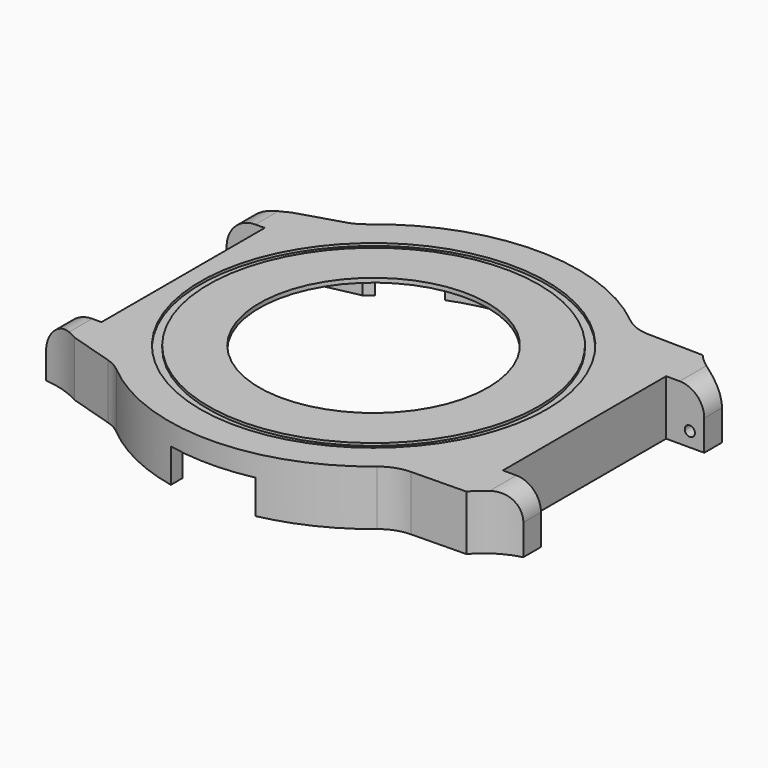
from build123d import *

# Parameters (mm, degrees)
PAD_DEPTH       = 6.5
POCKET_DEPTH    = 6
SKETCH002_R     = 13.5
POCKET001_DEPTH = 1
SKETCH003_W     = 5.4
SKETCH003_H     = 6.5
PAD001_DEPTH    = 4.5
POCKET002_DEPTH = 10
SKETCH008_R     = 0.6
POCKET003_DEPTH = 2
SKETCH009_R     = 0.6
POCKET004_DEPTH = 2
FILLET_R        = 2.9
FILLET001_R     = 2.9
FILLET002_R     = 5
FILLET003_R     = 5
FILLET004_R     = 5
FILLET005_R     = 5
SKETCH010_W     = 3.95
SKETCH010_H     = 6.5
PAD002_DEPTH    = 4.5
POCKET005_DEPTH = 10
SKETCH012_R     = 0.6
POCKET006_DEPTH = 2
SKETCH013_R     = 0.6
POCKET007_DEPTH = 2
FILLET006_R     = 3.4
FILLET007_R     = 3.4
SKETCH014_R     = 20.45
SKETCH014_R_2   = 19.5
POCKET008_DEPTH = 0.3
SKETCH015_R     = 2.2
SKETCH015_R_2   = 0.925
PAD003_DEPTH    = 2
POCKET009_DEPTH = 4
POCKET010_DEPTH = 4


with BuildPart() as part:
    # Sketch → Pad (new body)
    with BuildSketch(Plane.XY):
        with BuildLine():
            Line((-22.5019915649, 16), (-22.5019915649, -16))
            Line((-22.5019915649, -16), (-16.2858834578, -17.9000000001))
            ThreePointArc((-16.2858834577, -17.9000000001), (0.2206895737, -24.1989937004), (16.6096357576, -17.5999999999))
            Line((16.6096357576, -17.5999999999), (24.9082802252, -17.45))
            Line((24.9082802252, 17.45), (24.9082802252, -17.45))
            Line((16.6096357576, 17.6), (24.9082802252, 17.45))
            ThreePointArc((16.6096357576, 17.6), (0.2206895736, 24.1989937004), (-16.2858834578, 17.9))
            Line((-22.5019915649, 16), (-16.2858834578, 17.9))
        make_face()
    extrude(amount=PAD_DEPTH)

    # Sketch001 → Pocket (cut)
    with BuildSketch(Plane.XY):
        with BuildLine():
            Line((-14.8539557021, 16.9), (-21.2122180433, 15.55))
            Line((-21.2122180433, 15.55), (-21.2122180433, -15.55))
            Line((-21.2122180433, -15.55), (-14.8539557021, -16.9))
            ThreePointArc((-14.8539557021, -16.9), (-0.0760301383, -22.4998715423), (14.739402973, -17))
            Line((14.739402973, -17), (23.6191552218, -16.4))
            Line((23.6191552218, 16.4), (23.6191552218, -16.4))
            Line((14.739402973, 17), (23.6191552218, 16.4))
            ThreePointArc((14.739402973, 17), (-0.0760301383, 22.4998715423), (-14.8539557021, 16.9))
        make_face()
    extrude(amount=POCKET_DEPTH, mode=Mode.SUBTRACT)

    # Sketch002 (on Face19 of Pocket) → Pocket001 (cut)
    with BuildSketch(Plane(origin=(0, 0, 6), x_dir=(1, 0, 0), z_dir=(0, 0, -1))):
        Circle(SKETCH002_R)
    extrude(amount=-POCKET001_DEPTH, mode=Mode.SUBTRACT)

    # Sketch003 (on Face6 of Pocket001) → Pad001 (join)
    with BuildSketch(Plane.YZ.offset(24.9082802252)):
        with Locations((-14.75, 3.25)):
            Rectangle(SKETCH003_W, SKETCH003_H)
        with Locations((14.75, 3.25)):
            Rectangle(SKETCH003_W, SKETCH003_H)
    extrude(amount=PAD001_DEPTH)

    # Sketch006 → Pocket002 (cut)
    with BuildSketch(Plane.XY.offset(6.5)):
        with BuildLine():
            ThreePointArc((24.9082802253, 17.45), (26.9423471239, 15.7065020586), (29.4082802252, 14.6594169812))
            Line((29.4082802252, 17.45), (29.4082802252, 14.6594169812))
            Line((29.4082802252, 17.45), (24.9082802252, 17.45))
        make_face()
        with BuildLine():
            ThreePointArc((29.4082802253, -14.6594169812), (26.9423471239, -15.7065020586), (24.9082802253, -17.45))
            Line((29.4082802252, -17.45), (24.9082802252, -17.45))
            Line((29.4082802253, -14.6594169811), (29.4082802252, -17.45))
        make_face()
    extrude(amount=-POCKET002_DEPTH, mode=Mode.SUBTRACT)

    # Sketch008 (on Face27 of Pocket002) → Pocket003 (cut)
    with BuildSketch(Plane(origin=(0, -12.05, 0), x_dir=(-1, 0, 0), z_dir=(0, 1, 0))):
        with Locations((-27.7082802252, 1.7)):
            Circle(SKETCH008_R)
    extrude(amount=-POCKET003_DEPTH, mode=Mode.SUBTRACT)

    # Sketch009 (on Face26 of Pocket003) → Pocket004 (cut)
    with BuildSketch(Plane.XZ.offset(-12.05)):
        with Locations((27.7082802252, 1.7)):
            Circle(SKETCH009_R)
    extrude(amount=-POCKET004_DEPTH, mode=Mode.SUBTRACT)

    # Fillet
    fillet_edges = [part.edges().sort_by_distance(p)[0] for p in [
        (29.40828, -13.354708, 6.5),
    ]]
    fillet(fillet_edges, radius=FILLET_R)

    # Fillet001
    fillet001_edges = [part.edges().sort_by_distance(p)[0] for p in [
        (29.40828, 13.354708, 6.5),
    ]]
    fillet(fillet001_edges, radius=FILLET001_R)

    # Fillet002
    fillet002_edges = [part.edges().sort_by_distance(p)[0] for p in [
        (16.609636, -17.6, 3.25),
    ]]
    fillet(fillet002_edges, radius=FILLET002_R)

    # Fillet003
    fillet003_edges = [part.edges().sort_by_distance(p)[0] for p in [
        (16.609636, 17.6, 3.25),
    ]]
    fillet(fillet003_edges, radius=FILLET003_R)

    # Fillet004
    fillet004_edges = [part.edges().sort_by_distance(p)[0] for p in [
        (-16.285883, -17.9, 3.25),
    ]]
    fillet(fillet004_edges, radius=FILLET004_R)

    # Fillet005
    fillet005_edges = [part.edges().sort_by_distance(p)[0] for p in [
        (-16.285883, 17.9, 3.25),
    ]]
    fillet(fillet005_edges, radius=FILLET005_R)

    # Sketch010 (on Face4 of Fillet005) → Pad002 (join)
    with BuildSketch(Plane(origin=(-22.5019915649, 0, 0), x_dir=(0, -1, 0), z_dir=(-1, 0, 0))):
        with Locations((-14.025, 3.25)):
            Rectangle(SKETCH010_W, SKETCH010_H)
        with Locations((14.025, 3.25)):
            Rectangle(SKETCH010_W, SKETCH010_H)
    extrude(amount=PAD002_DEPTH)

    # Sketch011 (on Face6 of Pad002) → Pocket005 (cut)
    with BuildSketch(Plane.XY.offset(6.5)):
        with BuildLine():
            ThreePointArc((-27.0019915649, 14.6), (-24.6759937451, 15.0557212933), (-22.5019915649, 16))
            Line((-22.5019915649, 16), (-27.0019915649, 16))
            Line((-27.0019915649, 16), (-27.0019915649, 14.6))
        make_face()
        with BuildLine():
            ThreePointArc((-22.5019915649, -16), (-24.6759937451, -15.0557212933), (-27.0019915649, -14.6))
            Line((-27.0019915649, -14.6), (-27.0019915649, -16))
            Line((-27.0019915649, -16), (-22.5019915649, -16))
        make_face()
    extrude(amount=-POCKET005_DEPTH, mode=Mode.SUBTRACT)

    # Sketch012 (on Face23 of Pocket005) → Pocket006 (cut)
    with BuildSketch(Plane(origin=(0, -12.05, 0), x_dir=(-1, 0, 0), z_dir=(0, 1, 0))):
        with Locations((25.3019915649, 1.7)):
            Circle(SKETCH012_R)
    extrude(amount=-POCKET006_DEPTH, mode=Mode.SUBTRACT)

    # Sketch013 (on Face21 of Pocket006) → Pocket007 (cut)
    with BuildSketch(Plane.XZ.offset(-12.05)):
        with Locations((-25.3019915649, 1.7)):
            Circle(SKETCH013_R)
    extrude(amount=-POCKET007_DEPTH, mode=Mode.SUBTRACT)

    # Fillet006
    fillet006_edges = [part.edges().sort_by_distance(p)[0] for p in [
        (-27.001992, 13.325, 6.5),
    ]]
    fillet(fillet006_edges, radius=FILLET006_R)

    # Fillet007
    fillet007_edges = [part.edges().sort_by_distance(p)[0] for p in [
        (-27.001992, -13.325, 6.5),
    ]]
    fillet(fillet007_edges, radius=FILLET007_R)

    # Sketch014 (on Face4 of Fillet007) → Pocket008 (cut)
    with BuildSketch(Plane.XY.offset(6.5)):
        Circle(SKETCH014_R)
        Circle(SKETCH014_R_2, mode=Mode.SUBTRACT)
    extrude(amount=-POCKET008_DEPTH, mode=Mode.SUBTRACT)

    # Sketch015 (on Face55 of Pocket008) → Pad003 (join)
    with BuildSketch(Plane(origin=(0, 0, 6), x_dir=(1, 0, 0), z_dir=(0, 0, -1))):
        with Locations((-18.42, 13.32)):
            Circle(SKETCH015_R)
        with Locations((-18.42, 13.32)):
            Circle(SKETCH015_R_2, mode=Mode.SUBTRACT)
        with Locations((7.27, 18.56)):
            Circle(SKETCH015_R)
        with Locations((7.27, 18.56)):
            Circle(SKETCH015_R_2, mode=Mode.SUBTRACT)
        with Locations((5.37, -19.79)):
            Circle(SKETCH015_R)
        with Locations((5.37, -19.79)):
            Circle(SKETCH015_R_2, mode=Mode.SUBTRACT)
        with Locations((-18.42, -13.32)):
            Circle(SKETCH015_R)
        with Locations((-18.42, -13.32)):
            Circle(SKETCH015_R_2, mode=Mode.SUBTRACT)
    extrude(amount=PAD003_DEPTH)

    # Sketch016 → Pocket009 (cut)
    with BuildSketch(Plane(origin=(0, 0, 0), x_dir=(-1, 0, 0), z_dir=(0, 0, 1))):
        with BuildLine():
            Line((-5, 23.6778377391), (-5, 21.9374109685))
            ThreePointArc((5, 21.9374109685), (0, 22.5), (-5, 21.9374109685))
            Line((5, 23.6778377391), (5, 21.9374109685))
            ThreePointArc((5, 23.6778377391), (0, 24.2), (-5, 23.6778377391))
        make_face()
    extrude(amount=POCKET009_DEPTH, mode=Mode.SUBTRACT)

    # Sketch017 → Pocket010 (cut)
    with BuildSketch(Plane(origin=(0, 0, 0), x_dir=(-1, 0, 0), z_dir=(0, 0, 1))):
        with BuildLine():
            Line((-3.499984119, -22.2261132717), (-3.5, -23.9455632634))
            ThreePointArc((-3.5, -23.9455632634), (0, -24.2000019575), (3.5, -23.9455632634))
            Line((3.5000158811, -22.2261082701), (3.5, -23.9455632634))
            ThreePointArc((-3.499984119, -22.2261132717), (1.60767e-05, -22.5), (3.5000158811, -22.2261082701))
        make_face()
        with BuildLine():
            ThreePointArc((-13.9498796389, -17.6536358312), (-11.25, -19.4855715851), (-8.3135572795, -20.9077680626))
            Line((-8.3135572795, -20.9077680626), (-8.9416927184, -22.487466094))
            ThreePointArc((-15.0038705449, -18.987466094), (-12.1, -20.9578147716), (-8.9416927184, -22.487466094))
            Line((-13.9498796389, -17.6536358312), (-15.0038705449, -18.987466094))
        make_face()
        with BuildLine():
            ThreePointArc((8.3135572795, -20.9077680626), (11.25, -19.4855715851), (13.9498796389, -17.6536358312))
            Line((13.9498796389, -17.6536358312), (15.0038705449, -18.987466094))
            ThreePointArc((8.9416927184, -22.487466094), (12.1, -20.9578147716), (15.0038705449, -18.987466094))
            Line((8.3135572795, -20.9077680626), (8.9416927184, -22.487466094))
        make_face()
    extrude(amount=POCKET010_DEPTH, mode=Mode.SUBTRACT)


solid = part.part
